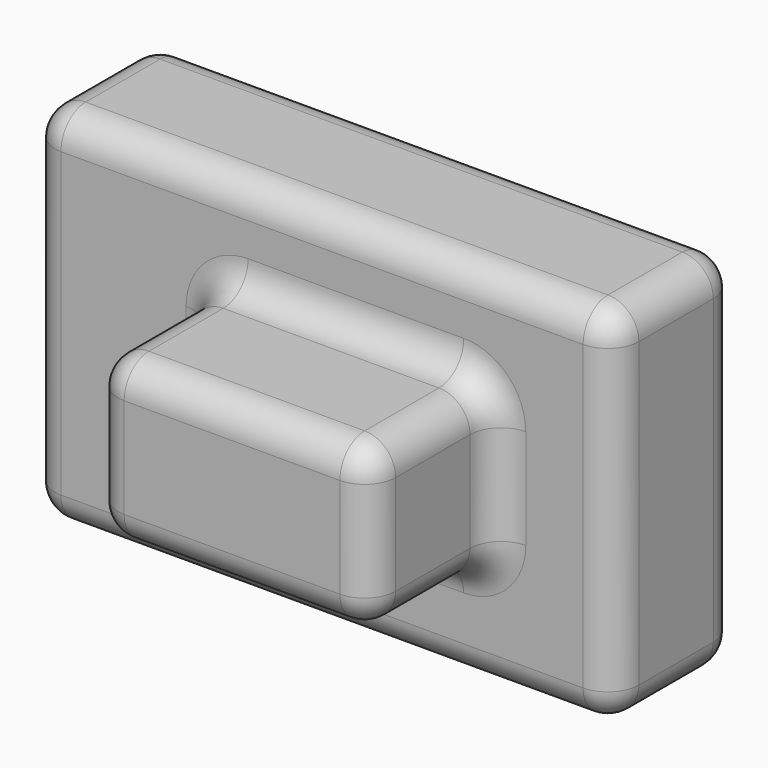
from build123d import *

# Parameters (mm, degrees)
F0_W     = 95.7648605108
F0_H     = 59.7243234515
F1_DEPTH = 25.4
F2_W     = 45.5140545964
F2_H     = 26.5670269728
F3_DEPTH = 50.8
F4_R     = 5.08


with BuildPart() as f1:
    # F0 (on Front) → F1 (new body)
    with BuildSketch(Plane.XZ):
        with Locations((0.8455961943, -4.4281929731)):
            Rectangle(F0_W, F0_H)
    extrude(amount=F1_DEPTH)

    # F2 (on Front) → F3 (join)
    with BuildSketch(Plane.XZ):
        with Locations((6.4061377198, -3.5014376044)):
            Rectangle(F2_W, F2_H)
    extrude(amount=F3_DEPTH)

    # F4
    f4_edges = [f1.edges().sort_by_distance(p)[0] for p in [
        (-16.35089, -38.1, -16.784951),
        (29.163165, -38.1, -16.784951),
        (48.728026, -12.7, -34.290355),
        (-47.036834, -12.7, -34.290355),
        (48.728026, -12.7, 25.433969),
        (29.163165, -38.1, 9.782076),
        (-47.036834, -12.7, 25.433969),
        (-16.35089, -38.1, 9.782076),
        (6.406138, -50.8, 9.782076),
        (6.406138, -50.8, -16.784951),
        (0.845596, -25.4, 25.433969),
        (-47.036834, -25.4, -4.428193),
        (0.845596, -25.4, -34.290355),
        (-47.036834, 0, -4.428193),
        (48.728026, 0, -4.428193),
        (0.845596, 0, -34.290355),
        (0.845596, 0, 25.433969),
        (48.728026, -25.4, -4.428193),
        (29.163165, -50.8, -3.501438),
        (6.406138, -25.4, -16.784951),
        (29.163165, -25.4, -3.501438),
        (-16.35089, -50.8, -3.501438),
        (6.406138, -25.4, 9.782076),
        (-16.35089, -25.4, -3.501438),
    ]]
    fillet(f4_edges, radius=F4_R)


solid = f1.part
